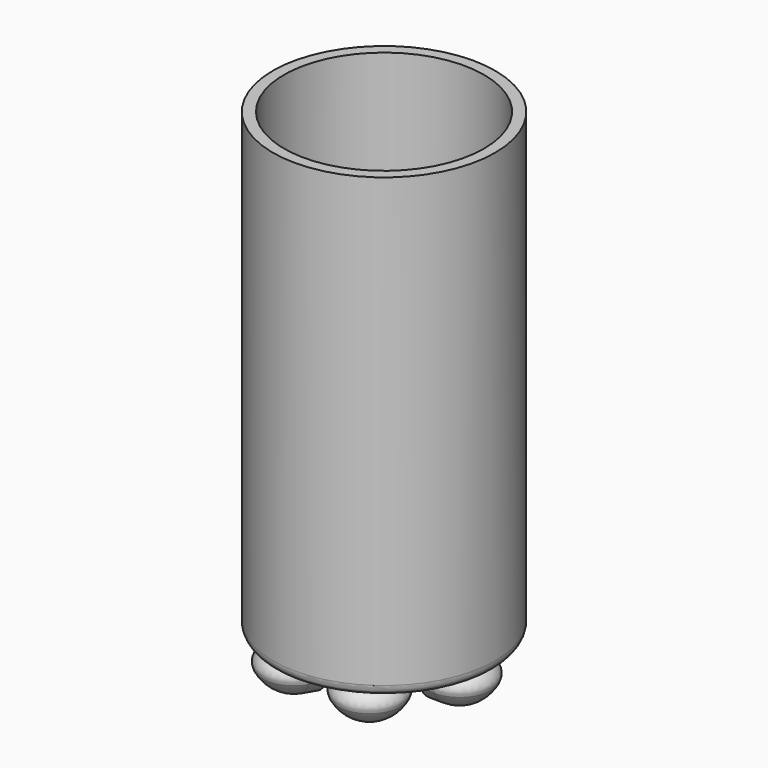
from build123d import *

# Parameters (mm, degrees)
F1_ANGLE = 180
F3_COUNT = 6
F4_R     = 50.8
F5_DEPTH = 6.35
F6_R     = 50.8
F6_R_2   = 45.72
F7_DEPTH = 203.2
F8_R     = 5.08
F9_R     = 5.08
F10_R    = 5.08
F10_2_R  = 5.08
F10_3_R  = 5.08
F10_4_R  = 5.08
F10_5_R  = 5.08


with BuildPart() as f1:
    # F0 (on Top) → F1 (revolve)
    with BuildSketch(Plane.XY):
        with BuildLine():
            Line((50.8, 0), (0, 0))
            Line((0, 0), (28.0928332363, -16.2194048312))
            Line((28.0928332363, -16.2194048312), (34.5805951688, -16.2194048312))
            ThreePointArc((34.5805951688, -16.2194048312), (46.0494463117, -11.468851143), (50.8, 0))
        make_face()
    revolve(axis=Axis((25.4, 0, 0), (1, 0, 0)), revolution_arc=F1_ANGLE)


with BuildPart() as f3_1:
    # F3: instance of F1
    add(f1.part.rotate(Axis((0, 0, 12.3121449724), (0, 0, 1)), 1 * 360 / F3_COUNT))

    # F10#3
    f10_3_edges = [f3_1.edges().sort_by_distance(p)[0] for p in [
        (32.95704, 34.145565, 0),
        (13.092407, 45.614416, 0),
    ]]
    fillet(f10_3_edges, radius=F10_3_R)


with BuildPart() as f3_2:
    # F3: instance of F1
    add(f1.part.rotate(Axis((0, 0, 12.3121449724), (0, 0, 1)), 2 * 360 / F3_COUNT))

    # F10#4
    f10_4_edges = [f3_2.edges().sort_by_distance(p)[0] for p in [
        (-13.092407, 45.614416, 0),
        (-32.95704, 34.145565, 0),
    ]]
    fillet(f10_4_edges, radius=F10_4_R)


with BuildPart() as f3_3:
    # F3: instance of F1
    add(f1.part.rotate(Axis((0, 0, 12.3121449724), (0, 0, 1)), 3 * 360 / F3_COUNT))

    # F10#5
    f10_5_edges = [f3_3.edges().sort_by_distance(p)[0] for p in [
        (-46.049446, 11.468851, 0),
        (-46.049446, -11.468851, 0),
    ]]
    fillet(f10_5_edges, radius=F10_5_R)


with BuildPart() as f3_4:
    # F3: instance of F1
    add(f1.part.rotate(Axis((0, 0, 12.3121449724), (0, 0, 1)), 4 * 360 / F3_COUNT))

    # F10
    f10_edges = [f3_4.edges().sort_by_distance(p)[0] for p in [
        (-32.95704, -34.145565, 0),
        (-13.092407, -45.614416, 0),
    ]]
    fillet(f10_edges, radius=F10_R)


with BuildPart() as f3_5:
    # F3: instance of F1
    add(f1.part.rotate(Axis((0, 0, 12.3121449724), (0, 0, 1)), 5 * 360 / F3_COUNT))

    # F9
    f9_edges = [f3_5.edges().sort_by_distance(p)[0] for p in [
        (13.092407, -45.614416, 0),
        (32.95704, -34.145565, 0),
    ]]
    fillet(f9_edges, radius=F9_R)


with BuildPart() as f5:
    # F4 (on Top) → F5 (new body)
    with BuildSketch(Plane.XY):
        Circle(F4_R)
    extrude(amount=F5_DEPTH)

    # F6 (on face) → F7 (join)
    with BuildSketch(Plane.XY.offset(6.35)):
        Circle(F6_R)
        Circle(F6_R_2, mode=Mode.SUBTRACT)
    extrude(amount=F7_DEPTH)

    # F8
    f8_edges = [f5.edges().sort_by_distance(p)[0] for p in [
        (-50.8, 0, 0),
    ]]
    fillet(f8_edges, radius=F8_R)


with BuildPart() as f1_1:
    add(f1.part)

    # F10#2
    f10_2_edges = [f1_1.edges().sort_by_distance(p)[0] for p in [
        (46.049446, 11.468851, 0),
    ]]
    fillet(f10_2_edges, radius=F10_2_R)


solid = Compound([f3_1.part, f3_2.part, f3_3.part, f3_4.part, f3_5.part, f5.part, f1_1.part])
